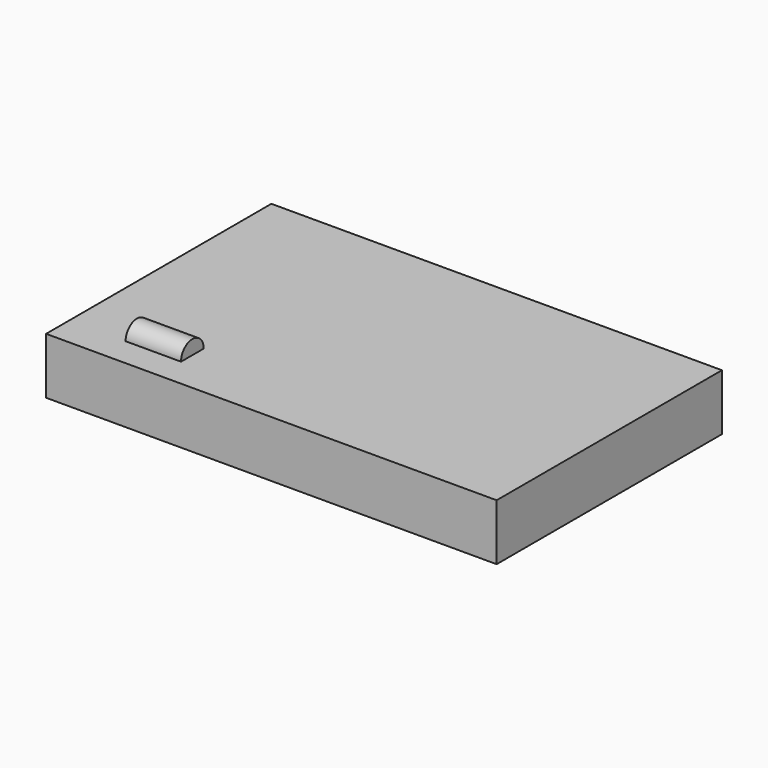
from build123d import *

# Parameters (mm, degrees)
F0_W     = 203.2
F0_H     = 127
F1_DEPTH = 25.4
F3_R     = 6.4003574435
F4_DEPTH = 25


with BuildPart() as f1:
    # F0 (on Top) → F1 (new body)
    with BuildSketch(Plane.XY):
        with Locations((-21.5751699987, 1.9377954304)):
            Rectangle(F0_W, F0_H)
    extrude(amount=F1_DEPTH)

    # F3 (on offset) → F4 (join)
    with BuildSketch(Plane(origin=(-97.7751699987, 0, 0), x_dir=(0, -1, 0), z_dir=(-1, 0, 0))):
        with Locations((42.0869700611, 25.4)):
            Circle(F3_R)
    extrude(amount=-F4_DEPTH)


solid = f1.part
